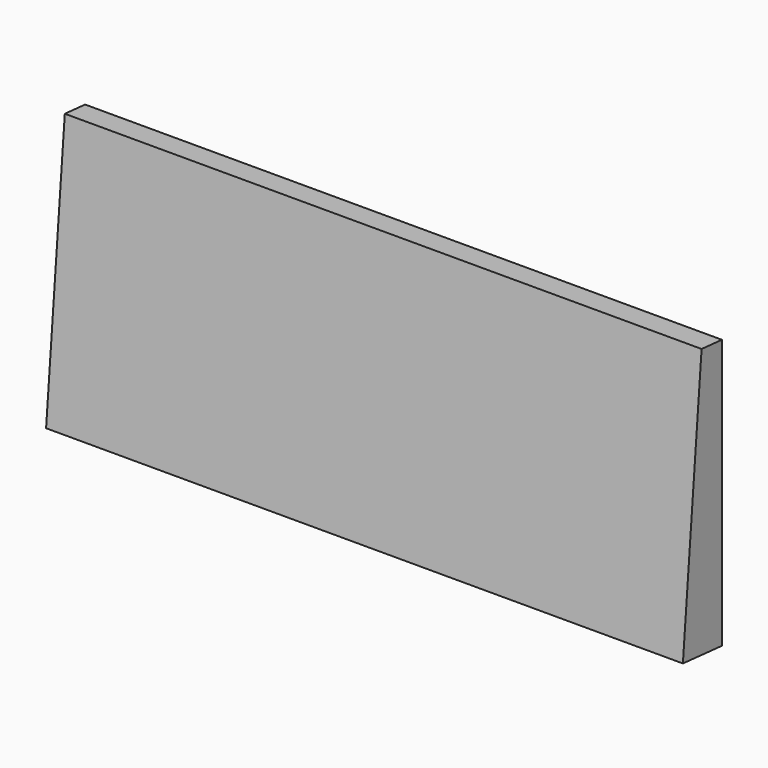
from build123d import *

# Parameters (mm, degrees)
F2_DEPTH      = 165.1
F2_DEPTH_BACK = 165.1
F3_DEPTH      = 13.2243322
F0_W          = 297.7512968
F0_H          = 107.2502808
F0_W_2        = 287.2877414
F0_H_2        = 96.8048356
F4_DEPTH      = 11.43


with BuildPart() as f2:
    # F1 (on Right) → F2 (new body, two sides)
    with BuildSketch(Plane.YZ) as f2_sk:
        Polygon((0, -69.85), (0, 0), (0, 69.85), (-12.12932521, -68.7888215479), align=None)
    extrude(amount=F2_DEPTH)
    extrude(f2_sk.sketch, amount=-F2_DEPTH_BACK)

    # F3 (add): a face of the model
    f3_faces = [f2.faces().sort_by_distance(p)[0] for p in [
        (0, -6.064662605, 0.530589226),
    ]]
    extrude(f3_faces, amount=F3_DEPTH)

    # F0 (on Front) → F4 (cut)
    with BuildSketch(Plane.XZ):
        Rectangle(F0_W, F0_H)
        Rectangle(F0_W_2, F0_H_2, mode=Mode.SUBTRACT)
        Rectangle(F0_W_2, F0_H_2)
    extrude(amount=F4_DEPTH, mode=Mode.SUBTRACT)


solid = f2.part
